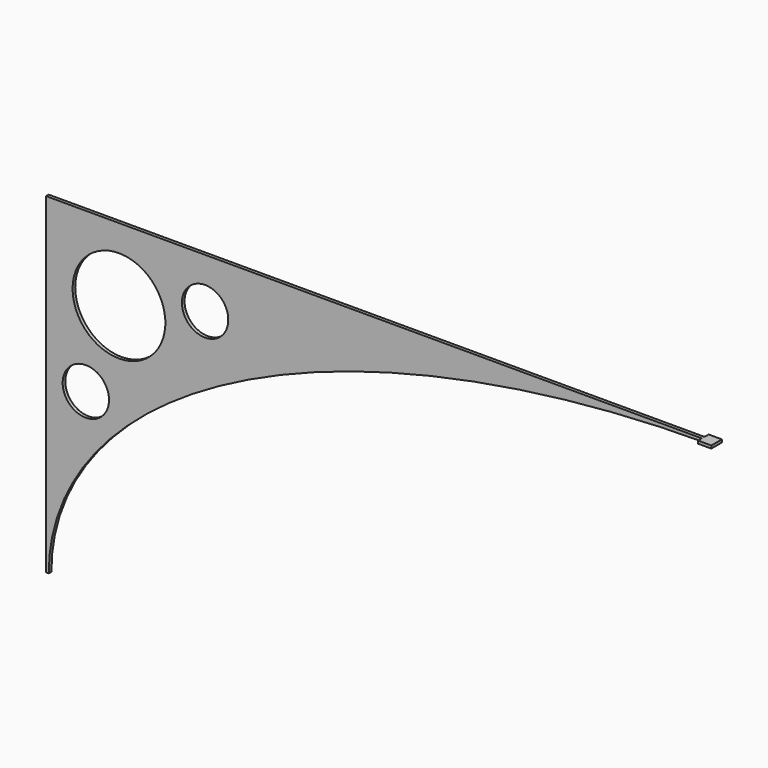
from build123d import *

# Parameters (mm, degrees)
F1_DEPTH = 2.5
F3_D     = 70
F4_D     = 35
F5_W     = 5
F5_H     = 2.5
F6_DEPTH = 2
F7_DEPTH = 0.1


with BuildPart() as f1:
    # F0 (on Front) → F1 (new body)
    with BuildSketch(Plane.XZ):
        with BuildLine():
            Line((234.3109268695, 164.7265180945), (-265.6890731305, 164.7265180945))
            Line((-265.6890731305, 164.7265180945), (-265.6890731305, -85.2734819055))
            Line((-265.6890731305, -85.2734819055), (-263.6890731305, -85.2734819055))
            add(Edge.make_bspline(
                [(234.3109268695, 162.7265180945), (-263.6890731305, 162.7265180945), (-263.6890731305, -85.2734819055)],
                knots=[4.7123889804, 4.7123889804, 4.7123889804, 6.2831853072, 6.2831853072, 6.2831853072], degree=2, weights=[1, 0.7071067812, 1]))
            Line((234.3109268695, 162.7265180945), (234.3109268695, 164.7265180945))
        make_face()
    extrude(amount=F1_DEPTH)

    # F3 (through all)
    with Locations(Plane.XZ.offset(2.5)):
        with Locations((-210.6890731305, 109.7265180945)):
            Hole(F3_D / 2)

    # F4 (through all)
    with Locations(Plane.XZ.offset(2.5)):
        with Locations((-145.6890731305, 127.2265180945), (-235.6890731305, 44.7265180945)):
            Hole(F4_D / 2)

    # F5 (on face) → F6 (join)
    with BuildSketch(Plane.XY.offset(164.7265180945)):
        Polygon((239.3109268695, -6.25), (239.3109268695, 3.75), (229.3109268695, 3.75), (229.3109268695, 0), (234.3109268695, 0), (234.3109268695, -2.5), (229.3109268695, -2.5), (229.3109268695, -6.25), align=None)
        with Locations((231.8109268695, -1.25)):
            Rectangle(F5_W, F5_H)
    extrude(amount=-F6_DEPTH)

    # F5 (on face) → F7 (join)
    with BuildSketch(Plane.XY.offset(164.7265180945)):
        Polygon((239.3109268695, -6.25), (239.3109268695, 3.75), (229.3109268695, 3.75), (229.3109268695, 0), (234.3109268695, 0), (234.3109268695, -2.5), (229.3109268695, -2.5), (229.3109268695, -6.25), align=None)
        with Locations((231.8109268695, -1.25)):
            Rectangle(F5_W, F5_H)
    extrude(amount=F7_DEPTH)


solid = f1.part
